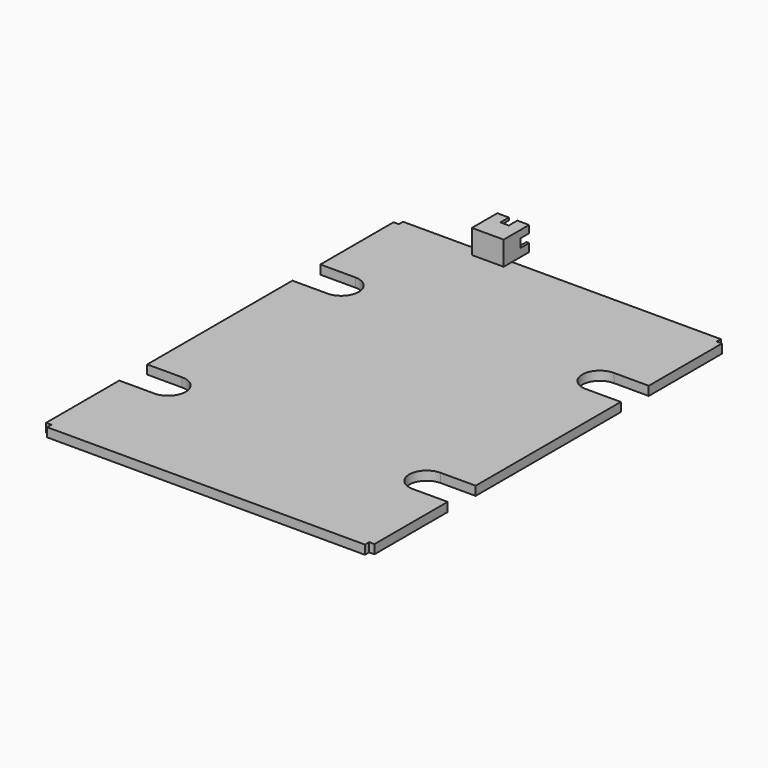
from build123d import *

# Parameters (mm, degrees)
PAD_DEPTH       = 1.7
SKETCH002_W     = 6
SKETCH002_H     = 6
PAD009_DEPTH    = 4.52
SKETCH022_W     = 5
SKETCH022_H     = 3.52
SKETCH022_W_2   = 0.5
SKETCH022_H_2   = 0.5
POCKET011_DEPTH = 5
SKETCH023_W     = 0.5
SKETCH023_H     = 1.6
SKETCH023_W_2   = 1.6
SKETCH023_H_2   = 0.5
POCKET012_DEPTH = 2
FILLET015_R     = 0.2


with BuildPart() as part:
    # Sketch → Pad (new body)
    with BuildSketch(Plane.XY):
        with BuildLine():
            Line((0, 0), (30, 0))
            Line((30, 0), (30, 1))
            Line((30, 1), (31, 1))
            Line((31, 1), (31, 18.27))
            Line((31, 18.27), (24.4, 18.27))
            ThreePointArc((24.4, 24.87), (21.1, 21.57), (24.4, 18.27))
            Line((24.4, 24.87), (31, 24.87))
            Line((31, 24.87), (31, 59.13))
            Line((31, 59.13), (24.4, 59.13))
            ThreePointArc((24.4, 65.73), (21.1, 62.43), (24.4, 59.13))
            Line((24.4, 65.73), (31, 65.73))
            Line((31, 65.73), (31, 83))
            Line((30, 83), (31, 83))
            Line((30, 84), (30, 83))
            Line((30, 84), (0, 84))
            Line((0, 84), (-30, 84))
            Line((-30, 84), (-30, 83))
            Line((-30, 83), (-31, 83))
            Line((-31, 83), (-31, 65.73))
            Line((-31, 65.73), (-24.4, 65.73))
            ThreePointArc((-24.4, 59.13), (-21.1, 62.43), (-24.4, 65.73))
            Line((-24.4, 59.13), (-31, 59.13))
            Line((-31, 59.13), (-31, 24.87))
            Line((-31, 24.87), (-24.4, 24.87))
            ThreePointArc((-24.4, 18.27), (-21.1, 21.57), (-24.4, 24.87))
            Line((-24.4, 18.27), (-31, 18.27))
            Line((-31, 18.27), (-31, 1))
            Line((-31, 1), (-30, 1))
            Line((-30, 1), (-30, 0))
            Line((-30, 0), (0, 0))
        make_face()
    extrude(amount=PAD_DEPTH)

    # Sketch002 → Pad009 (new body)
    with BuildSketch(Plane.XY.offset(1.7)):
        with Locations((-12.43, 85.03)):
            Rectangle(SKETCH002_W, SKETCH002_H)
    extrude(amount=PAD009_DEPTH)

    # Sketch022 → Pocket011 (cut)
    with BuildSketch(Plane(origin=(0, 88.03, 0), x_dir=(-1, 0, 0), z_dir=(0, 1, 0))):
        with Locations((12.43, 3.96)):
            Rectangle(SKETCH022_W, SKETCH022_H)
        with Locations((11.5, 4.51)):
            Rectangle(SKETCH022_W_2, SKETCH022_H_2, mode=Mode.SUBTRACT)
        with Locations((13.5, 4.51)):
            Rectangle(SKETCH022_W_2, SKETCH022_H_2, mode=Mode.SUBTRACT)
    extrude(amount=-POCKET011_DEPTH, mode=Mode.SUBTRACT)

    # Sketch023 → Pocket012 (cut)
    with BuildSketch(Plane(origin=(0, 88.03, 0), x_dir=(-1, 0, 0), z_dir=(0, 1, 0))):
        with Locations((9.68, 4.02)):
            Rectangle(SKETCH023_W, SKETCH023_H)
        with Locations((15.18, 4.02)):
            Rectangle(SKETCH023_W, SKETCH023_H)
        with Locations((12.45003, 5.97)):
            Rectangle(SKETCH023_W_2, SKETCH023_H_2)
    extrude(amount=-POCKET012_DEPTH, mode=Mode.SUBTRACT)

    # Fillet015
    fillet015_edges = [part.edges().sort_by_distance(p)[0] for p in [
        (-13.5, 88.03, 4.76),
        (-13.75, 88.03, 4.51),
        (-13.5, 88.03, 4.26),
        (-13.25, 88.03, 4.51),
        (-11.5, 88.03, 4.76),
        (-11.75, 88.03, 4.51),
        (-11.5, 88.03, 4.26),
        (-11.25, 88.03, 4.51),
    ]]
    fillet(fillet015_edges, radius=FILLET015_R)


solid = part.part
